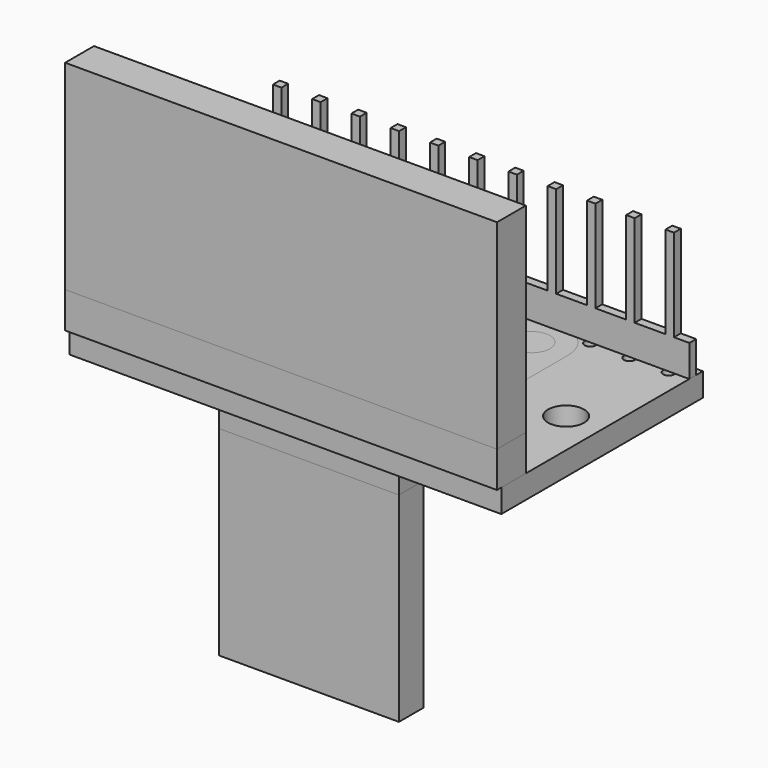
from build123d import *

# Parameters (mm, degrees)
SKETCH_W                = 30.48
SKETCH_H                = 17.78
PAD_DEPTH               = 1.65
SKETCH002_R             = 1.27
POCKET_DEPTH            = 1.651
SKETCH003_R             = 0.4
POCKET001_DEPTH         = 1.651
LINEARPATTERN_COUNT     = 12
LINEARPATTERN_PITCH     = 2.770909
LINEARPATTERN001_COUNT  = 12
LINEARPATTERN001_PITCH  = 2.770909
PAD005_DEPTH            = 1.65
SKETCH010_R             = 1.27
POCKET003_DEPTH         = 1.651
SKETCH013_R             = 0.4
POCKET004_DEPTH         = 1.651
LINEARPATTERN004_COUNT  = 3
LINEARPATTERN004_PITCH  = 2.54
LINEARPATTERN005_COUNT  = 3
LINEARPATTERN005_PITCH  = 2.54
SKETCH001_W             = 14
SKETCH001_H             = 7.2
PAD001_DEPTH            = 1
SKETCH004_W             = 30.48
SKETCH004_H             = 2.54
PAD002_DEPTH            = 2.54
SKETCH006_W             = 30.48
SKETCH006_H             = 8.74
PAD003_DEPTH            = 0.3
SKETCH007_W             = 1.94
SKETCH007_H             = 12.4
POCKET002_DEPTH         = 0.301
POCKET002_DEPTH_BACK    = 0.301
LINEARPATTERN002_COUNT  = 12
LINEARPATTERN002_PITCH  = 2.770909
LINEARPATTERN003_COUNT  = 12
LINEARPATTERN003_PITCH  = 2.770909
SKETCH008_W             = 30.48
SKETCH008_H             = 14.1
PAD004_DEPTH            = 1.27
SKETCH011_W             = 3
SKETCH011_H             = 6
PAD006_DEPTH            = 1.6
SKETCH014_W             = 12.7
SKETCH014_H             = 2.18761
PAD007_DEPTH            = 2.54
SKETCH016_W             = 10.76
SKETCH016_H             = 0.6
PAD008_DEPTH            = 8.74
SKETCH017_W             = 1.94
SKETCH017_H             = 12.4
POCKET005_DEPTH         = 0.001
POCKET005_DEPTH_BACK    = 6.016
BODY013_PLACEMENT_ANGLE = 180
SKETCH018_W             = 12.7
SKETCH018_H             = 2.18761
PAD009_DEPTH            = 14.1


with BuildPart() as mainboard:
    # Sketch → Pad (new body)
    with BuildSketch(Plane.XY):
        Rectangle(SKETCH_W, SKETCH_H)
    extrude(amount=-PAD_DEPTH)

    # Sketch002 → Pocket (cut, through all)
    with BuildSketch(Plane.XY):
        with Locations((-12.7, 0)):
            Circle(SKETCH002_R)
        with Locations((12.7, 0)):
            Circle(SKETCH002_R)
    extrude(amount=-POCKET_DEPTH, mode=Mode.SUBTRACT)

    # Sketch003 → Pocket001 (cut, through all)
    with BuildSketch(Plane.XY):
        with Locations((0, -7.62)):
            Circle(SKETCH003_R)
        with Locations((0, 7.62)):
            Circle(SKETCH003_R)
    pocket001 = extrude(amount=-POCKET001_DEPTH, mode=Mode.SUBTRACT)

    # LinearPattern: Pocket001 ×12
    with Locations(*[(i * LINEARPATTERN_PITCH, 0, 0) for i in range(1, LINEARPATTERN_COUNT)]):
        add(pocket001, mode=Mode.SUBTRACT)

    # LinearPattern001: Pocket001 ×12
    with Locations(*[(-i * LINEARPATTERN001_PITCH, 0, 0) for i in range(1, LINEARPATTERN001_COUNT)]):
        add(pocket001, mode=Mode.SUBTRACT)


with BuildPart() as mainboard002:
    # Sketch009 → Pad005 (new body)
    with BuildSketch(Plane.XY):
        with BuildLine():
            Line((-5.715, 8.255), (5.715, 8.255))
            ThreePointArc((8.255, 5.715), (7.511051, 7.511051), (5.715, 8.255))
            Line((8.255, 5.715), (8.255, -5.715))
            ThreePointArc((5.715, -8.255), (7.511051, -7.511051), (8.255, -5.715))
            Line((5.715, -8.255), (-5.715, -8.255))
            ThreePointArc((-8.255, -5.715), (-7.511051, -7.511051), (-5.715, -8.255))
            Line((-8.255, -5.715), (-8.255, 5.715))
            ThreePointArc((-5.715, 8.255), (-7.511051, 7.511051), (-8.255, 5.715))
        make_face()
    extrude(amount=-PAD005_DEPTH)

    # Sketch010 → Pocket003 (cut, through all)
    with BuildSketch(Plane.XY):
        with Locations((-5.715, 5.715)):
            Circle(SKETCH010_R)
        with Locations((5.715, 5.715)):
            Circle(SKETCH010_R)
    extrude(amount=-POCKET003_DEPTH, mode=Mode.SUBTRACT)

    # Sketch013 → Pocket004 (cut, through all)
    with BuildSketch(Plane.XY):
        with Locations((0, -5.715)):
            Circle(SKETCH013_R)
    pocket004 = extrude(amount=-POCKET004_DEPTH, mode=Mode.SUBTRACT)

    # LinearPattern004: Pocket004 ×3
    with Locations(*[(i * LINEARPATTERN004_PITCH, 0, 0) for i in range(1, LINEARPATTERN004_COUNT)]):
        add(pocket004, mode=Mode.SUBTRACT)

    # LinearPattern005: Pocket004 ×3
    with Locations(*[(-i * LINEARPATTERN005_PITCH, 0, 0) for i in range(1, LINEARPATTERN005_COUNT)]):
        add(pocket004, mode=Mode.SUBTRACT)


with BuildPart() as chip:
    # Sketch001 → Pad001 (new body)
    with BuildSketch(Plane.XY):
        Rectangle(SKETCH001_W, SKETCH001_H)
    extrude(amount=PAD001_DEPTH)


with BuildPart() as pinblock001:
    # Sketch004 → Pad002 (new body)
    with BuildSketch(Plane.XY):
        Rectangle(SKETCH004_W, SKETCH004_H)
    extrude(amount=PAD002_DEPTH)


with BuildPart() as pinblock001_1:
    # Body005 placement: moved
    add(pinblock001.part.moved(Location((0, 8, 0))))


with BuildPart() as pinblock001_2:
    # Clone placement: moved
    add(pinblock001_1.part.moved(Location((0, -8, 0))))


with BuildPart() as pinblock001_3:
    # Body006 placement: moved
    add(pinblock001_2.part.moved(Location((0, -8, 0))))


with BuildPart() as pins001:
    # Sketch006 → Pad003 (new body, symmetric)
    with BuildSketch(Plane.XZ):
        with Locations((0, 4.37)):
            Rectangle(SKETCH006_W, SKETCH006_H)
    extrude(amount=PAD003_DEPTH, both=True)

    # Sketch007 → Pocket002 (cut, two sides)
    with BuildSketch(Plane.XZ) as pocket002_sk:
        with Locations((-1.27, 8.44)):
            Rectangle(SKETCH007_W, SKETCH007_H)
        with Locations((1.27, 8.44)):
            Rectangle(SKETCH007_W, SKETCH007_H)
    pocket002 = extrude(amount=-POCKET002_DEPTH, mode=Mode.SUBTRACT) + extrude(pocket002_sk.sketch, amount=POCKET002_DEPTH_BACK, mode=Mode.SUBTRACT)

    # LinearPattern002: Pocket002 ×12
    with Locations(*[(i * LINEARPATTERN002_PITCH, 0, 0) for i in range(1, LINEARPATTERN002_COUNT)]):
        add(pocket002, mode=Mode.SUBTRACT)

    # LinearPattern003: Pocket002 ×12
    with Locations(*[(-i * LINEARPATTERN003_PITCH, 0, 0) for i in range(1, LINEARPATTERN003_COUNT)]):
        add(pocket002, mode=Mode.SUBTRACT)


with BuildPart() as pins001_1:
    # Body007 placement: moved
    add(pins001.part.moved(Location((0, -8, 0))))


with BuildPart() as pins001_2:
    # Body008 placement: moved
    add(pins001_1.part.moved(Location((0, 16, 0))))


with BuildPart() as jumperheader001:
    # Sketch008 → Pad004 (new body, symmetric)
    with BuildSketch(Plane.XZ):
        with Locations((0, 9.59)):
            Rectangle(SKETCH008_W, SKETCH008_H)
    extrude(amount=PAD004_DEPTH, both=True)


with BuildPart() as jumperheader001_1:
    # Body009 placement: moved
    add(jumperheader001.part.moved(Location((0, 8, 0))))


with BuildPart() as jumperheader001_2:
    # Clone002 placement: moved
    add(jumperheader001_1.part.moved(Location((0, -8, 0))))


with BuildPart() as jumperheader001_3:
    # Body010 placement: moved
    add(jumperheader001_2.part.moved(Location((0, -8, 0))))


with BuildPart() as lightsensor:
    # Sketch011 → Pad006 (new body)
    with BuildSketch(Plane.XY):
        Rectangle(SKETCH011_W, SKETCH011_H)
    extrude(amount=PAD006_DEPTH)


with BuildPart() as pinblock002:
    # Sketch014 → Pad007 (new body)
    with BuildSketch(Plane.XY):
        with Locations((0, -5.715)):
            Rectangle(SKETCH014_W, SKETCH014_H)
    extrude(amount=PAD007_DEPTH)


with BuildPart() as pinblock002_1:
    # Body012 placement: moved
    add(pinblock002.part.moved(Location((0, 0, -4.2))))


with BuildPart() as pins002:
    # Sketch016 → Pad008 (new body)
    with BuildSketch(Plane.XY):
        with Locations((0, -5.715)):
            Rectangle(SKETCH016_W, SKETCH016_H)
    extrude(amount=PAD008_DEPTH)

    # Sketch017 → Pocket005 (cut, two sides)
    with BuildSketch(Plane.XZ) as pocket005_sk:
        with Locations((-1.27, 8.44)):
            Rectangle(SKETCH017_W, SKETCH017_H)
        with Locations((1.27, 8.44)):
            Rectangle(SKETCH017_W, SKETCH017_H)
        with Locations((3.81, 8.44)):
            Rectangle(SKETCH017_W, SKETCH017_H)
        with Locations((-3.81, 8.44)):
            Rectangle(SKETCH017_W, SKETCH017_H)
    extrude(amount=-POCKET005_DEPTH, mode=Mode.SUBTRACT)
    extrude(pocket005_sk.sketch, amount=POCKET005_DEPTH_BACK, mode=Mode.SUBTRACT)


with BuildPart() as pins002_1:
    # Body013 placement: moved
    add(pins002.part.moved(Location((0, -11.4, -1.7))).rotate(Axis((0, -11.4, -1.7), (1, 0, 0)), BODY013_PLACEMENT_ANGLE))


with BuildPart() as jumperheader002:
    # Sketch018 → Pad009 (new body)
    with BuildSketch(Plane.XY):
        with Locations((0, -5.715)):
            Rectangle(SKETCH018_W, SKETCH018_H)
    extrude(amount=-PAD009_DEPTH)


with BuildPart() as jumperheader002_1:
    # Body014 placement: moved
    add(jumperheader002.part.moved(Location((0, 0, -4.2))))


solid = Compound([mainboard.part, mainboard002.part, chip.part, pinblock001_3.part, pins001_2.part, jumperheader001_3.part, lightsensor.part, pinblock002_1.part, pins002_1.part, jumperheader002_1.part])
